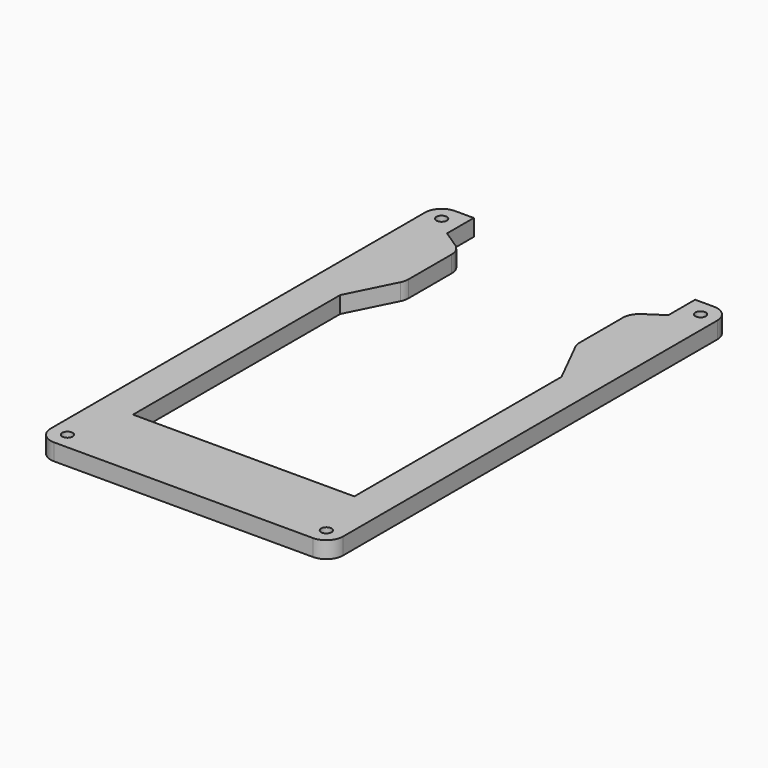
from build123d import *

# Parameters (mm, degrees)
F0_W     = 88.9
F0_H     = 152.4
F1_DEPTH = 5.08
F3_DEPTH = 25.4
F4_R     = 1.5875
F5_DEPTH = 25.4
F6_R     = 5.08


with BuildPart() as f1:
    # F0 (on Top) → F1 (new body)
    with BuildSketch(Plane.XY):
        with Locations((44.45, -76.2)):
            Rectangle(F0_W, F0_H)
    extrude(amount=F1_DEPTH)

    # F2 (on face) → F3 (cut)
    with BuildSketch(Plane.XY.offset(5.08)):
        Polygon((78.105, 0), (10.795, 0), (10.795, -10.16), (18.415, -15.24), (18.415, -35.56), (10.795, -50.8), (10.795, -129.54), (78.105, -129.54), (78.105, -50.8), (70.485, -35.56), (70.485, -15.24), (78.105, -10.16), align=None)
    extrude(amount=-F3_DEPTH, mode=Mode.SUBTRACT)

    # F4 (on face) → F5 (cut)
    with BuildSketch(Plane.XY.offset(5.08)):
        with Locations((5.08, -5.08)):
            Circle(F4_R)
        with Locations((83.82, -5.08)):
            Circle(F4_R)
        with Locations((83.82, -147.32)):
            Circle(F4_R)
        with Locations((5.08, -147.32)):
            Circle(F4_R)
    extrude(amount=-F5_DEPTH, mode=Mode.SUBTRACT)

    # F6
    f6_edges = [f1.edges().sort_by_distance(p)[0] for p in [
        (88.9, -152.4, 2.54),
        (0, -152.4, 2.54),
        (88.9, 0, 2.54),
        (0, 0, 2.54),
        (18.415, -15.24, 2.54),
        (18.415, -35.56, 2.54),
        (70.485, -35.56, 2.54),
        (70.485, -15.24, 2.54),
    ]]
    fillet(f6_edges, radius=F6_R)


solid = f1.part
